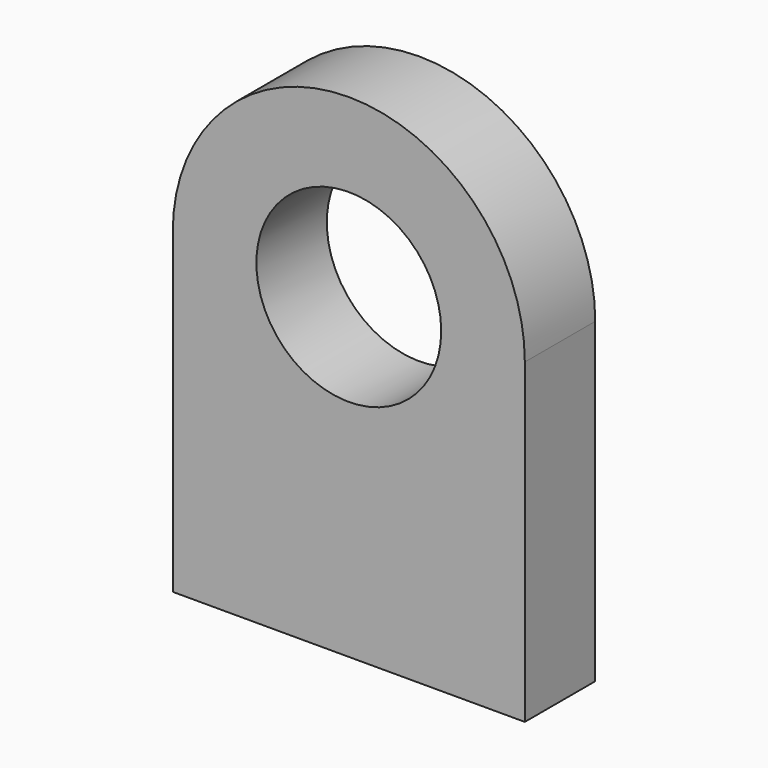
from build123d import *

# Parameters (mm, degrees)
F0_R     = 5.25
F1_DEPTH = 5


with BuildPart() as f1:
    # F0 (on Front) → F1 (new body)
    with BuildSketch(Plane.XZ):
        with BuildLine():
            Line((10, -18), (10, 0))
            ThreePointArc((10, 0), (0, -10), (-10, 0))
            Line((-10, 0), (-10, -18))
            Line((-10, -18), (10, -18))
        make_face()
        with BuildLine():
            ThreePointArc((-10, 0), (0, -10), (10, 0))
            ThreePointArc((10, 0), (0, 10), (-10, 0))
        make_face()
        Circle(F0_R, mode=Mode.SUBTRACT)
    extrude(amount=-F1_DEPTH)


solid = f1.part
